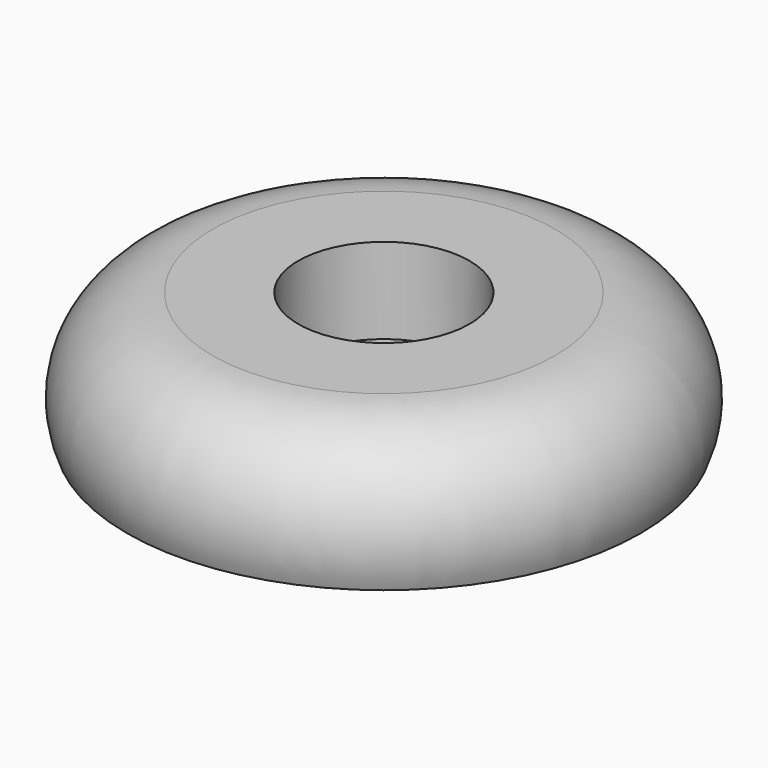
from build123d import *

# Parameters (mm, degrees)
F2_R     = 6.35
F3_DEPTH = 6.35


with BuildPart() as f1:
    # F0 (on Front) → F1 (revolve)
    with BuildSketch(Plane.XZ):
        with BuildLine():
            Line((0, 9.525), (0, 0))
            Line((0, 0), (19.05, 0))
            ThreePointArc((19.05, 0), (18.423813, 6.461708), (12.7, 9.525))
            Line((12.7, 9.525), (0, 9.525))
        make_face()
    revolve(axis=Axis((0, 0, 2.139305), (0, 0, -1)))

    # F2 (on face) → F3 (cut)
    with BuildSketch(Plane.XY.offset(9.525)):
        Circle(F2_R)
    extrude(amount=-F3_DEPTH, mode=Mode.SUBTRACT)


solid = f1.part
